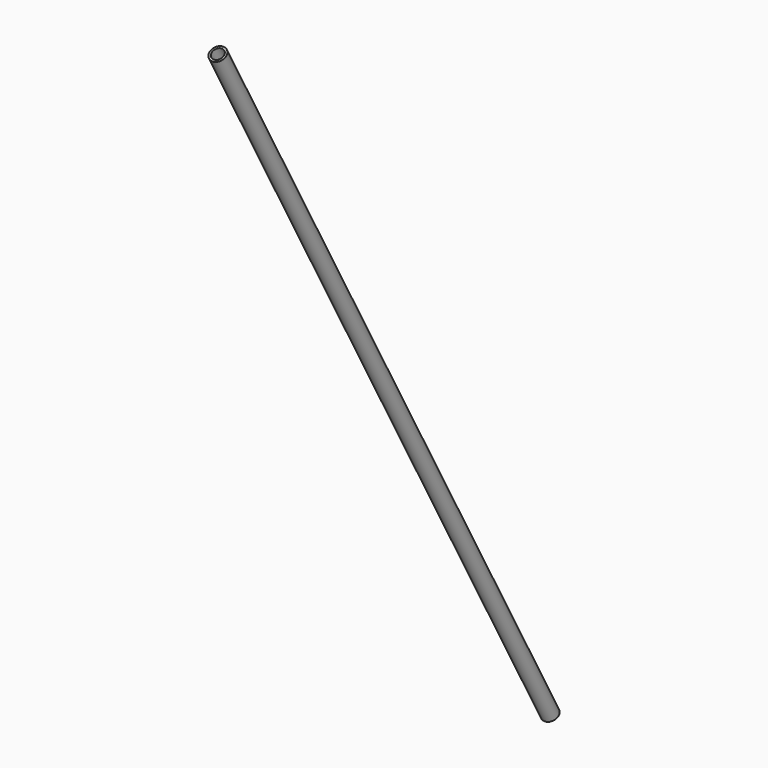
from build123d import *

# Parameters (mm, degrees)
F4_R     = 4.7625
F4_R_2   = 3.5179
F5_DEPTH = 522.986


with BuildPart() as f5:
    # F4 (on 3pt) → F5 (new body)
    with BuildSketch(Plane(origin=(0, -29.8246650894, 53.8351355405), x_dir=(1, 0, 0), z_dir=(0, -0.4846028091, 0.8747343125))):
        with Locations((0, -111.0912576832)):
            Circle(F4_R)
        with Locations((0, -111.0912576832)):
            Circle(F4_R_2, mode=Mode.SUBTRACT)
    extrude(amount=-F5_DEPTH)


solid = f5.part
